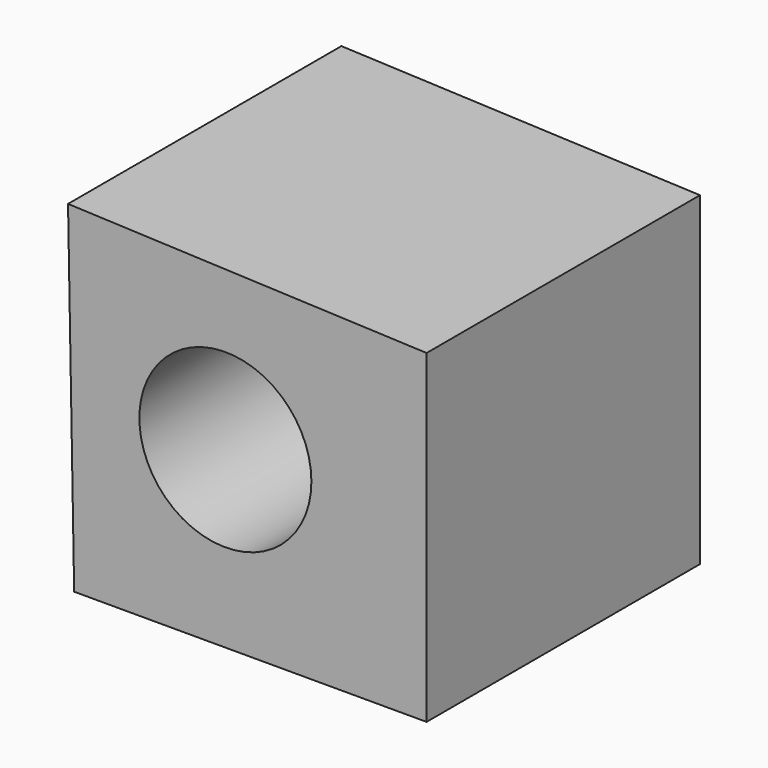
from build123d import *

# Parameters (mm, degrees)
F1_DEPTH = 63.5
F2_R     = 15.983821
F3_DEPTH = 63.501


with BuildPart() as f1:
    # F0 (on Front) → F1 (new body)
    with BuildSketch(Plane.XZ):
        Polygon((6.436611, 41.762456), (-60.198989, 44.487275), (-59.060927, -18.596388), (6.436611, -18.596388), align=None)
    extrude(amount=-F1_DEPTH)

    # F2 (on face) → F3 (cut, through all)
    with BuildSketch(Plane.XZ):
        with Locations((-30.957228, 13.779593)):
            Circle(F2_R)
    extrude(amount=-F3_DEPTH, mode=Mode.SUBTRACT)


solid = f1.part
